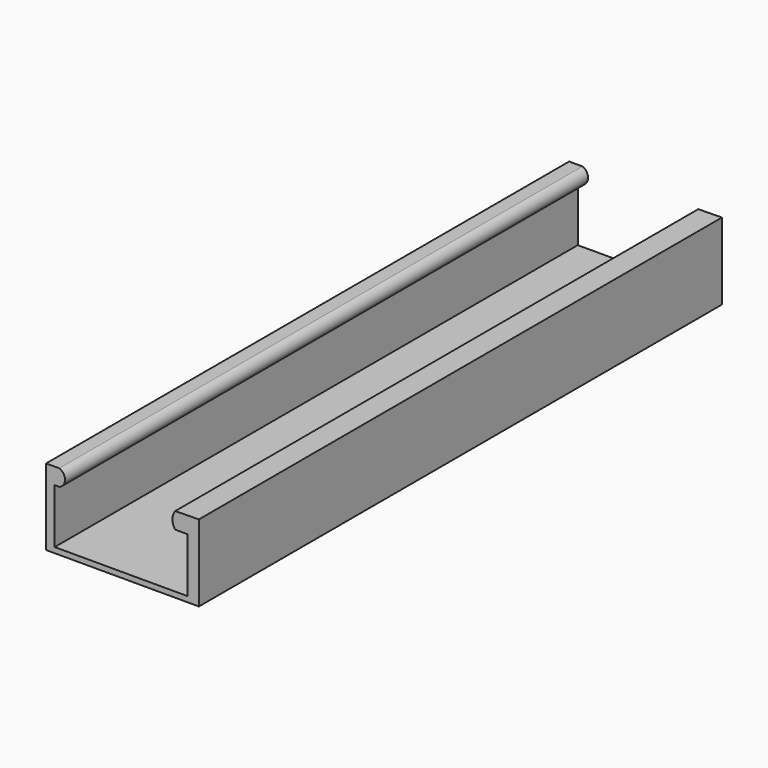
from build123d import *

# Parameters (mm, degrees)
F1_DEPTH = 304.8


with BuildPart() as f1:
    # F0 (on Front) → F1 (new body)
    with BuildSketch(Plane.XZ):
        with BuildLine():
            Line((22.978765, -16.205431), (22.978765, 19.537479))
            Line((22.978765, 19.537479), (11.954708, 19.378722))
            ThreePointArc((11.954708, 19.378722), (10.651453, 15.55977), (11.93625, 11.734569))
            Line((11.93625, 11.734569), (17.777437, 11.734569))
            Line((17.777437, 11.734569), (17.777437, -13.665431))
            Line((17.777437, -13.665431), (-44.22378, -13.665431))
            Line((-44.22378, -13.665431), (-44.22378, 11.734569))
            Line((-44.22378, 11.734569), (-42.046018, 11.734569))
            ThreePointArc((-42.046018, 11.734569), (-39.418685, 15.553289), (-42.062317, 19.360744))
            Line((-42.062317, 19.360744), (-48.247457, 19.354586))
            Line((-48.247457, 19.354586), (-48.247457, -16.205431))
            Line((-48.247457, -16.205431), (22.978765, -16.205431))
        make_face()
    extrude(amount=F1_DEPTH)


solid = f1.part
